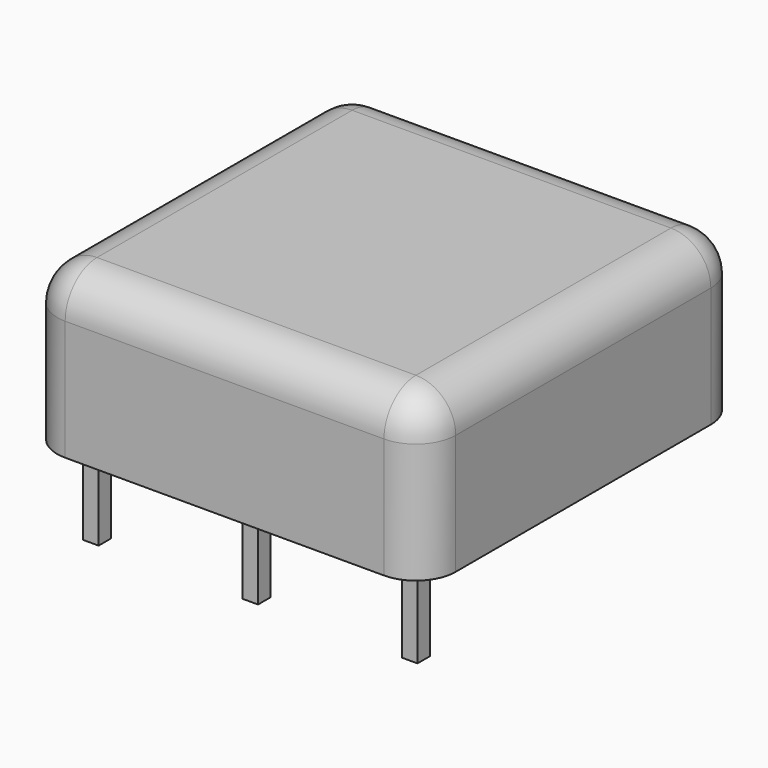
from build123d import *

# Parameters (mm, degrees)
BOX_W        = 25.4
BOX_H        = 25.4
BOX_DEPTH    = 0.4
FILLET_R     = 2.54
BOX002_W     = 1
BOX002_H     = 1
BOX002_DEPTH = 5.6
BOX006_W     = 1
BOX006_H     = 1
BOX006_DEPTH = 5.6
BOX005_W     = 1
BOX005_H     = 1
BOX005_DEPTH = 5.6
BOX004_W     = 1
BOX004_H     = 1
BOX004_DEPTH = 5.6
BOX003_W     = 1
BOX003_H     = 1
BOX003_DEPTH = 5.6
BOX001_W     = 1
BOX001_H     = 1
BOX001_DEPTH = 5.6
BOX007_W     = 25.4
BOX007_H     = 25.4
BOX007_DEPTH = 10.2
FILLET002_R  = 2.54
FILLET003_R  = 2.54


with BuildPart() as bottomplastic:
    # Box → Box (new body)
    with BuildSketch(Plane.XY):
        with Locations((12.7, 12.7)):
            Rectangle(BOX_W, BOX_H)
    extrude(amount=BOX_DEPTH)

    # Fillet
    fillet_edges = [bottomplastic.edges().sort_by_distance(p)[0] for p in [
        (0, 0, 0.2),
        (0, 25.4, 0.2),
        (25.4, 0, 0.2),
        (25.4, 25.4, 0.2),
    ]]
    fillet(fillet_edges, radius=FILLET_R)


with BuildPart() as pin4:
    # Box002 → Box002 (new body)
    with BuildSketch(Plane(origin=(12.2, 2.04, -5.6), x_dir=(1, 0, 0), z_dir=(0, 0, 1))):
        with Locations((0.5, 0.5)):
            Rectangle(BOX002_W, BOX002_H)
    extrude(amount=BOX002_DEPTH)


with BuildPart() as pin1:
    # Box006 → Box006 (new body)
    with BuildSketch(Plane(origin=(14.74, 22.36, -5.6), x_dir=(1, 0, 0), z_dir=(0, 0, 1))):
        with Locations((0.5, 0.5)):
            Rectangle(BOX006_W, BOX006_H)
    extrude(amount=BOX006_DEPTH)


with BuildPart() as pin2:
    # Box005 → Box005 (new body)
    with BuildSketch(Plane(origin=(9.66, 22.36, -5.6), x_dir=(1, 0, 0), z_dir=(0, 0, 1))):
        with Locations((0.5, 0.5)):
            Rectangle(BOX005_W, BOX005_H)
    extrude(amount=BOX005_DEPTH)


with BuildPart() as pin6:
    # Box004 → Box004 (new body)
    with BuildSketch(Plane(origin=(2.04, 22.36, -5.6), x_dir=(1, 0, 0), z_dir=(0, 0, 1))):
        with Locations((0.5, 0.5)):
            Rectangle(BOX004_W, BOX004_H)
    extrude(amount=BOX004_DEPTH)


with BuildPart() as pin5:
    # Box003 → Box003 (new body)
    with BuildSketch(Plane(origin=(22.36, 2.04, -5.6), x_dir=(1, 0, 0), z_dir=(0, 0, 1))):
        with Locations((0.5, 0.5)):
            Rectangle(BOX003_W, BOX003_H)
    extrude(amount=BOX003_DEPTH)


with BuildPart() as pins:
    # Box001 → Box001 (new body)
    with BuildSketch(Plane(origin=(2.04, 2.04, -5.6), x_dir=(1, 0, 0), z_dir=(0, 0, 1))):
        with Locations((0.5, 0.5)):
            Rectangle(BOX001_W, BOX001_H)
    extrude(amount=BOX001_DEPTH)

    # Fusion: union Pin4, Pin1, Pin2, Pin6, Pin5
    add(pin4.part)
    add(pin1.part)
    add(pin2.part)
    add(pin6.part)
    add(pin5.part)


with BuildPart() as topplastic:
    # Box007 → Box007 (new body)
    with BuildSketch(Plane.XY):
        with Locations((12.7, 12.7)):
            Rectangle(BOX007_W, BOX007_H)
    extrude(amount=BOX007_DEPTH)

    # Fillet002
    fillet002_edges = [topplastic.edges().sort_by_distance(p)[0] for p in [
        (0, 0, 5.1),
        (0, 25.4, 5.1),
        (25.4, 0, 5.1),
        (25.4, 25.4, 5.1),
    ]]
    fillet(fillet002_edges, radius=FILLET002_R)

    # Fillet003
    fillet003_edges = [topplastic.edges().sort_by_distance(p)[0] for p in [
        (0, 12.7, 10.2),
        (0.743949, 0.743949, 10.2),
        (0.743949, 24.656051, 10.2),
        (12.7, 0, 10.2),
        (12.7, 25.4, 10.2),
        (24.656051, 0.743949, 10.2),
        (24.656051, 24.656051, 10.2),
        (25.4, 12.7, 10.2),
    ]]
    fillet(fillet003_edges, radius=FILLET003_R)


solid = Compound([bottomplastic.part, pins.part, topplastic.part])
